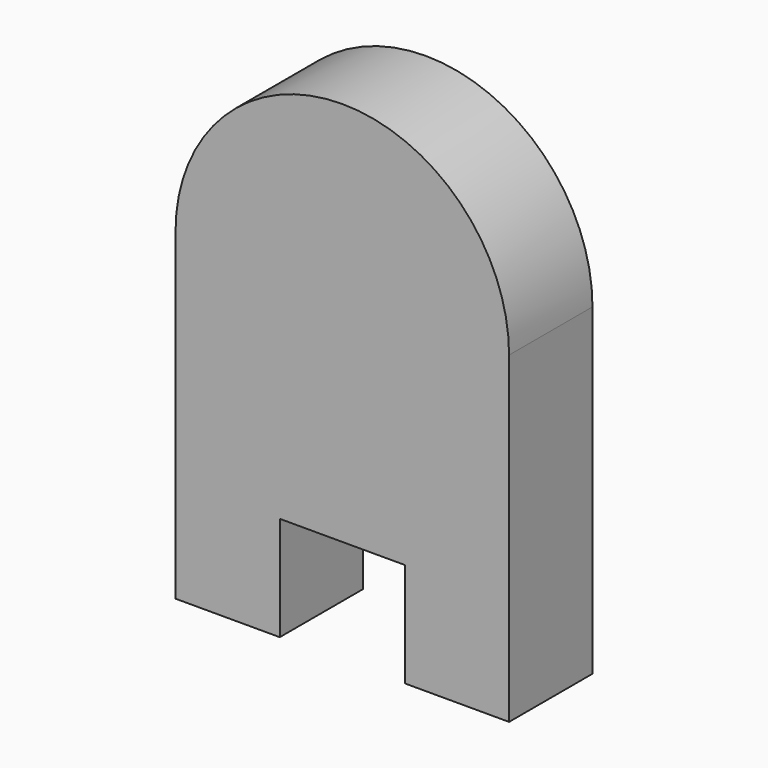
from build123d import *

# Parameters (mm, degrees)
F1_DEPTH = 25


with BuildPart() as f1:
    # F0 (on Front) → F1 (new body)
    with BuildSketch(Plane.XZ):
        with BuildLine():
            ThreePointArc((-40, 0), (0, -40), (40, 0))
            ThreePointArc((40, 0), (0, 40), (-40, 0))
        make_face()
        with BuildLine():
            Line((40, -77.465028), (40, 0))
            ThreePointArc((40, 0), (0, -40), (-40, 0))
            Line((-40, 0), (-40, -77.465028))
            Line((-40, -77.465028), (-15, -77.465028))
            Line((-15, -77.465028), (-15, -52.465028))
            Line((-15, -52.465028), (15, -52.465028))
            Line((15, -52.465028), (15, -77.465028))
            Line((15, -77.465028), (40, -77.465028))
        make_face()
    extrude(amount=F1_DEPTH)


solid = f1.part
